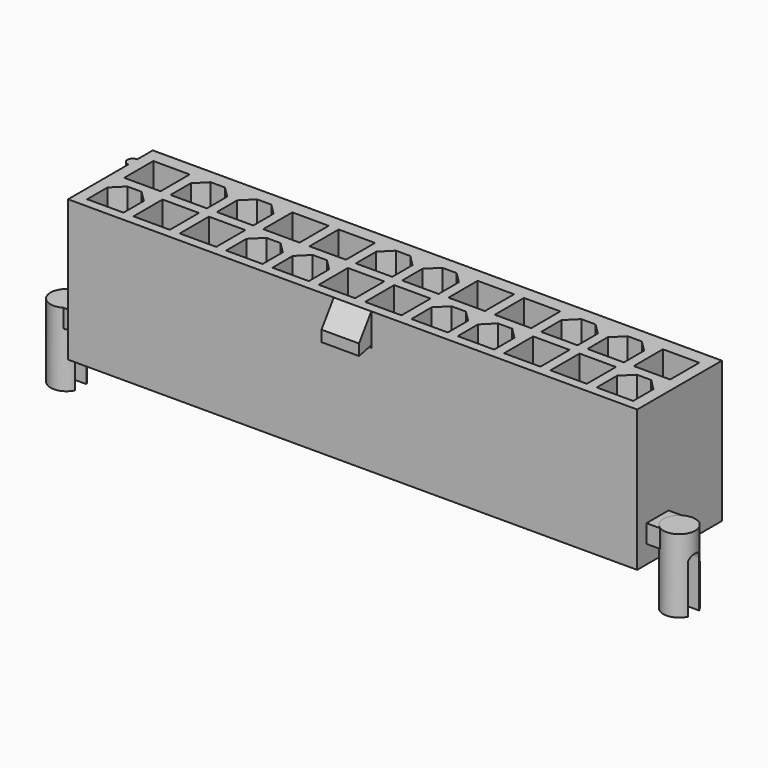
from build123d import *

# Parameters (mm, degrees)
BOX_W                  = 51.6
BOX_H                  = 9.6
BOX_DEPTH              = 12.8
BOX001_W               = 3.4
BOX001_H               = 1.4
BOX001_DEPTH           = 3
CHAMFER_SIZE2          = 2
CHAMFER_SIZE           = 1.39
BOX002_W               = 3.4
BOX002_H               = 1.5
BOX002_DEPTH           = 0.3
FILLET_R               = 0.05
BOX006_W               = 1.5
BOX006_H               = 2.5
BOX006_DEPTH           = 1.65
CYLINDER_R             = 1.45
CYLINDER_DEPTH         = 6.66
BOX007_W               = 1.5
BOX007_H               = 2.5
BOX007_DEPTH           = 1.65
CYLINDER001_R          = 1.45
CYLINDER001_DEPTH      = 6.66
BOX003_W               = 3.3
BOX003_H               = 3.3
BOX003_DEPTH           = 8.75
LINEARPATTERN_COUNT    = 12
LINEARPATTERN_PITCH    = 4.2
BOX008_W               = 3.3
BOX008_H               = 3.3
BOX008_DEPTH           = 8.75
LINEARPATTERN001_COUNT = 12
LINEARPATTERN001_PITCH = 4.2
CHAMFER001_SIZE        = 1
CYLINDER002_W          = 0.5
CYLINDER002_H          = 12.8
CYLINDER002_ANGLE      = 180
BOX009_W               = 3
BOX009_H               = 1.25
BOX009_DEPTH           = 5
LINEARPATTERN002_COUNT = 2
LINEARPATTERN002_PITCH = 55.54
FILLET001_R            = 0.6


with BuildPart() as part:
    # Box → Box (join)
    with BuildSketch(Plane(origin=(-2.7, -7.35, 0), x_dir=(1, 0, 0), z_dir=(0, 0, 1))):
        with Locations((25.8, 4.8)):
            Rectangle(BOX_W, BOX_H)
    extrude(amount=BOX_DEPTH)

    # Box001 → Box001 (join)
    with BuildSketch(Plane(origin=(21.4, -8.75, 9.8), x_dir=(1, 0, 0), z_dir=(0, 0, 1))):
        with Locations((1.7, 0.7)):
            Rectangle(BOX001_W, BOX001_H)
    extrude(amount=BOX001_DEPTH)

    # Chamfer
    chamfer_edges = [part.edges().sort_by_distance(p)[0] for p in [
        (23.1, -8.75, 12.8),
    ]]
    chamfer_side = part.faces().sort_by_distance((23.1, -8.05, 12.8))[0]
    chamfer(chamfer_edges, length=CHAMFER_SIZE, length2=CHAMFER_SIZE2, reference=chamfer_side)

    # Box002 → Box002 (cut)
    with BuildSketch(Plane(origin=(21.4, -8.815, 9.475), x_dir=(1, 0, 0), z_dir=(0, -0.21644, 0.976296))):
        with Locations((1.7, 0.75)):
            Rectangle(BOX002_W, BOX002_H)
    extrude(amount=BOX002_DEPTH, mode=Mode.SUBTRACT)

    # Fillet
    fillet_edges = [part.edges().sort_by_distance(p)[0] for p in [
        (23.1, -7.415488, 10.092548),
    ]]
    fillet(fillet_edges, radius=FILLET_R)

    # Box006 → Box006 (join)
    with BuildSketch(Plane(origin=(-4.2, -6.3, 1.65), x_dir=(1, 0, 0), z_dir=(0, 0, 1))):
        with Locations((0.75, 1.25)):
            Rectangle(BOX006_W, BOX006_H)
    extrude(amount=BOX006_DEPTH)

    # Cylinder → Cylinder (join)
    with BuildSketch(Plane(origin=(-4.675, -5.05, -3.35), x_dir=(1, 0, 0), z_dir=(0, 0, 1))):
        Circle(CYLINDER_R)
    extrude(amount=CYLINDER_DEPTH)

    # Box007 → Box007 (join)
    with BuildSketch(Plane(origin=(48.9, -6.3, 1.65), x_dir=(1, 0, 0), z_dir=(0, 0, 1))):
        with Locations((0.75, 1.25)):
            Rectangle(BOX007_W, BOX007_H)
    extrude(amount=BOX007_DEPTH)

    # Cylinder001 → Cylinder001 (join)
    with BuildSketch(Plane(origin=(50.875, -5.05, -3.35), x_dir=(1, 0, 0), z_dir=(0, 0, 1))):
        Circle(CYLINDER001_R)
    extrude(amount=CYLINDER001_DEPTH)

    # Box003 → Box003 (cut)
    with BuildSketch(Plane(origin=(-1.65, -2.3, 4.1), x_dir=(1, 0, 0), z_dir=(0, 0, 1))):
        with Locations((1.65, 1.65)):
            Rectangle(BOX003_W, BOX003_H)
    box003 = extrude(amount=BOX003_DEPTH, mode=Mode.SUBTRACT)

    # LinearPattern: Box003 ×12
    with Locations(*[(i * LINEARPATTERN_PITCH, 0, 0) for i in range(1, LINEARPATTERN_COUNT)]):
        add(box003, mode=Mode.SUBTRACT)

    # Box008 → Box008 (cut)
    with BuildSketch(Plane(origin=(-1.65, -6.5, 4.1), x_dir=(1, 0, 0), z_dir=(0, 0, 1))):
        with Locations((1.65, 1.65)):
            Rectangle(BOX008_W, BOX008_H)
    box008 = extrude(amount=BOX008_DEPTH, mode=Mode.SUBTRACT)

    # LinearPattern001: Box008 ×12
    with Locations(*[(i * LINEARPATTERN001_PITCH, 0, 0) for i in range(1, LINEARPATTERN001_COUNT)]):
        add(box008, mode=Mode.SUBTRACT)

    # Chamfer001
    chamfer001_edges = [part.edges().sort_by_distance(p)[0] for p in [
        (2.55, 1, 8.45),
        (-1.65, -3.2, 8.45),
        (5.85, 1, 8.45),
        (1.65, -3.2, 8.45),
        (14.25, -3.2, 8.45),
        (10.95, -3.2, 8.45),
        (31.95, -3.2, 8.45),
        (40.35, 1, 8.45),
        (36.15, 1, 8.45),
        (47.85, -3.2, 8.45),
        (43.65, 1, 8.45),
        (44.55, -3.2, 8.45),
        (18.45, -3.2, 8.45),
        (15.15, -3.2, 8.45),
        (6.75, 1, 8.45),
        (10.05, 1, 8.45),
        (39.45, 1, 8.45),
        (35.25, -3.2, 8.45),
        (31.05, -3.2, 8.45),
        (27.75, -3.2, 8.45),
        (26.85, 1, 8.45),
        (23.55, 1, 8.45),
        (22.65, 1, 8.45),
        (19.35, 1, 8.45),
    ]]
    chamfer(chamfer001_edges, length=CHAMFER001_SIZE)

    # Cylinder002 → Cylinder002 (revolve)
    with BuildSketch(Plane.YZ.offset(-2.7)):
        with Locations((0.25, 6.4)):
            Rectangle(CYLINDER002_W, CYLINDER002_H)
    revolve(axis=Axis((-2.7, 0, 0), (0, 0, 1)), revolution_arc=CYLINDER002_ANGLE)

    # Box009 → Box009 (cut)
    with BuildSketch(Plane(origin=(-6.2, -5.7, -3.5), x_dir=(1, 0, 0), z_dir=(0, 0, 1))):
        with Locations((1.5, 0.625)):
            Rectangle(BOX009_W, BOX009_H)
    box009 = extrude(amount=BOX009_DEPTH, mode=Mode.SUBTRACT)

    # LinearPattern002: Box009 ×2
    with Locations(*[(i * LINEARPATTERN002_PITCH, 0, 0) for i in range(1, LINEARPATTERN002_COUNT)]):
        add(box009, mode=Mode.SUBTRACT)

    # Fillet001
    fillet001_edges = [part.edges().sort_by_distance(p)[0] for p in [
        (50.875, -5.7, 1.5),
        (50.875, -4.45, 1.5),
        (-4.675, -5.7, 1.5),
        (-4.675, -4.45, 1.5),
    ]]
    fillet(fillet001_edges, radius=FILLET001_R)


solid = part.part
